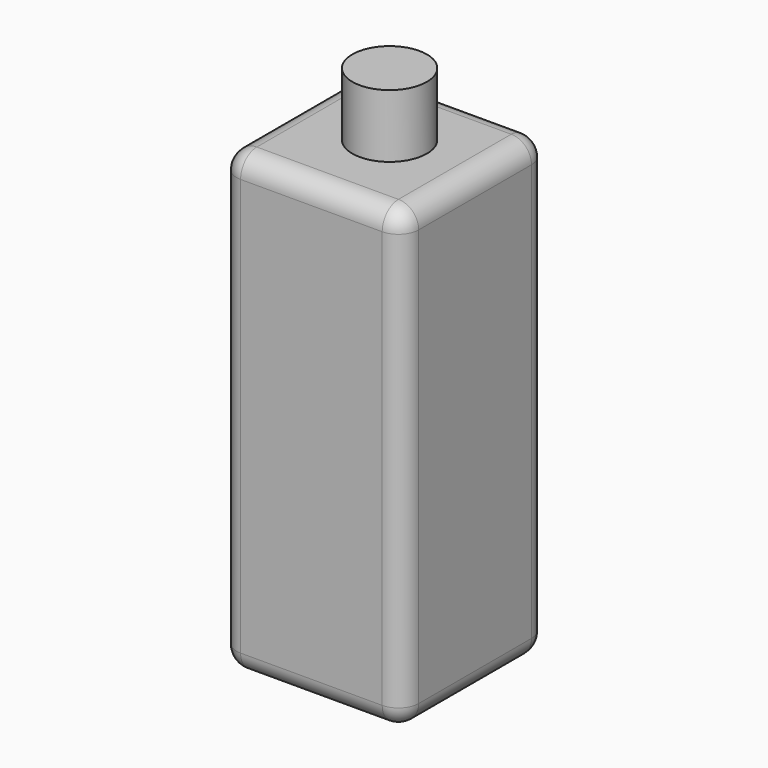
from build123d import *

# Parameters (mm, degrees)
F0_W     = 44.955451
F0_H     = 112.923815
F1_DEPTH = 44.8
F2_R     = 5
F3_R     = 9.195935
F4_DEPTH = 15.6


with BuildPart() as f1:
    # F0 (on Front) → F1 (new body)
    with BuildSketch(Plane.XZ):
        with Locations((0.468286, -0.200692)):
            Rectangle(F0_W, F0_H)
    extrude(amount=F1_DEPTH)

    # F2
    f2_edges = [f1.edges().sort_by_distance(p)[0] for p in [
        (22.946011, -22.4, 56.261215),
        (0.468286, 0, 56.261215),
        (-22.00944, -22.4, 56.261215),
        (0.468286, -44.8, 56.261215),
        (22.946011, -22.4, -56.6626),
        (22.946011, -44.8, -0.200693),
        (22.946011, 0, -0.200693),
        (-22.00944, 0, -0.200693),
        (0.468286, 0, -56.6626),
        (-22.00944, -44.8, -0.200693),
        (-22.00944, -22.4, -56.6626),
        (0.468286, -44.8, -56.6626),
    ]]
    fillet(f2_edges, radius=F2_R)

    # F3 (on face) → F4 (join)
    with BuildSketch(Plane.XY.offset(56.261215)):
        with Locations((1.114632, -21.473374)):
            Circle(F3_R)
    extrude(amount=F4_DEPTH)


solid = f1.part
